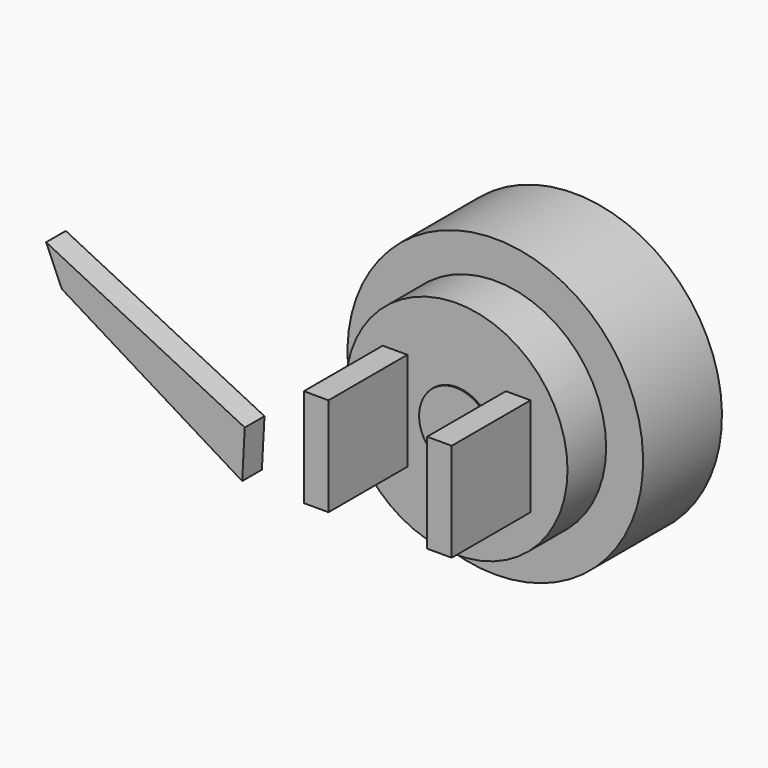
from build123d import *

# Parameters (mm, degrees)
F4_DEPTH  = 38.1
F3_R      = 28.575
F3_R_2    = 9.4701166516
F5_DEPTH  = 12.446
F7_DEPTH  = 118.13693
F8_DEPTH  = 38.1
F6_W      = 6.35
F6_H      = 12.7
F9_DEPTH  = 25.4
F11_START = 76.2
F11_DEPTH = 6.35


with BuildPart() as f1:
    # F0 (on Right) → F1 (revolve)
    with BuildSketch(Plane.YZ):
        Polygon((0, -17.78), (0, 0), (-25.4, 0), (-25.4, -38.1), (0, -38.1), align=None)
    revolve(axis=Axis((0, 5.2446068449, 0), (0, -1, 0)))

    # F2 (on Front) → F4 (join)
    with BuildSketch(Plane.XZ):
        with BuildLine():
            ThreePointArc((0, 9.4701166516), (-9.4701166516, 0), (0, -9.4701166516))
            Line((0, -9.4701166516), (0, 9.4701166516))
        make_face()
        with BuildLine():
            Line((0, 9.4701166516), (0, -9.4701166516))
            ThreePointArc((0, -9.4701166516), (6.696383703, -6.696383703), (9.4701166516, 0))
            ThreePointArc((9.4701166516, 0), (6.696383703, 6.696383703), (0, 9.4701166516))
        make_face()
    extrude(amount=F4_DEPTH)


with BuildPart() as f5:
    # F3 (on face) → F5 (new body)
    with BuildSketch(Plane.XZ.offset(25.4)):
        Circle(F3_R)
        Circle(F3_R_2, mode=Mode.SUBTRACT)
        Circle(F3_R_2)
    extrude(amount=F5_DEPTH)


with BuildPart() as f7_tool:
    # F6 (on face) → F7 (new body)
    with BuildSketch(Plane.XZ.offset(37.846)):
        with BuildLine():
            Line((0, 0), (9.525, 0))
            ThreePointArc((9.525, 0), (6.7351920908, 6.7351920908), (0, 9.525))
            Line((0, 9.525), (0, 0))
        make_face()
        with BuildLine():
            Line((0, 0), (0, 9.525))
            ThreePointArc((0, 9.525), (-6.7351920908, 6.7351920908), (-9.525, 0))
            Line((-9.525, 0), (0, 0))
        make_face()
        with BuildLine():
            ThreePointArc((-9.525, 0), (-6.7351920908, -6.7351920908), (0, -9.525))
            Line((0, -9.525), (0, 0))
            Line((0, 0), (-9.525, 0))
        make_face()
        with BuildLine():
            ThreePointArc((0, -9.525), (6.7351920908, -6.7351920908), (9.525, 0))
            Line((9.525, 0), (0, 0))
            Line((0, 0), (0, -9.525))
        make_face()
    extrude(amount=-F7_DEPTH)


with BuildPart() as f1_1:
    add(f1.part)

    # F7: cut by f7_tool
    add(f7_tool.part, mode=Mode.SUBTRACT)


with BuildPart() as f5_1:
    add(f5.part)

    # F7: cut by f7_tool
    add(f7_tool.part, mode=Mode.SUBTRACT)


with BuildPart() as f8:
    # F2 (on Front) → F8 (new body)
    with BuildSketch(Plane.XZ):
        with BuildLine():
            Line((0, 9.4701166516), (0, -9.4701166516))
            ThreePointArc((0, -9.4701166516), (6.696383703, -6.696383703), (9.4701166516, 0))
            ThreePointArc((9.4701166516, 0), (6.696383703, 6.696383703), (0, 9.4701166516))
        make_face()
        with BuildLine():
            ThreePointArc((0, 9.4701166516), (-9.4701166516, 0), (0, -9.4701166516))
            Line((0, -9.4701166516), (0, 9.4701166516))
        make_face()
    extrude(amount=F8_DEPTH)


with BuildPart() as f9:
    # F6 (on face) → F9 (new body)
    with BuildSketch(Plane.XZ.offset(37.846)):
        with Locations((-15.875, 6.35)):
            Rectangle(F6_W, F6_H)
        with Locations((-15.875, -6.35)):
            Rectangle(F6_W, F6_H)
    extrude(amount=F9_DEPTH)


with BuildPart() as f9b:
    # F6 (on face) → F9, piece 2 (new body)
    with BuildSketch(Plane.XZ.offset(37.846)):
        with Locations((15.875, 6.35)):
            Rectangle(F6_W, F6_H)
        with Locations((15.875, -6.35)):
            Rectangle(F6_W, F6_H)
    extrude(amount=F9_DEPTH)


with BuildPart() as f11:
    # F10 (on Front) → F11 (new body)
    with BuildSketch(Plane.XZ.offset(F11_START)):
        Polygon((-65.9655656783, 28.4429107026), (-19.502600655, 0), (-18.8364831494, 12.3632987734), (-70.0378857396, 37.7510689156), align=None)
    extrude(amount=F11_DEPTH)


solid = Compound([f1_1.part, f5_1.part, f8.part, f9.part, f9b.part, f11.part])
